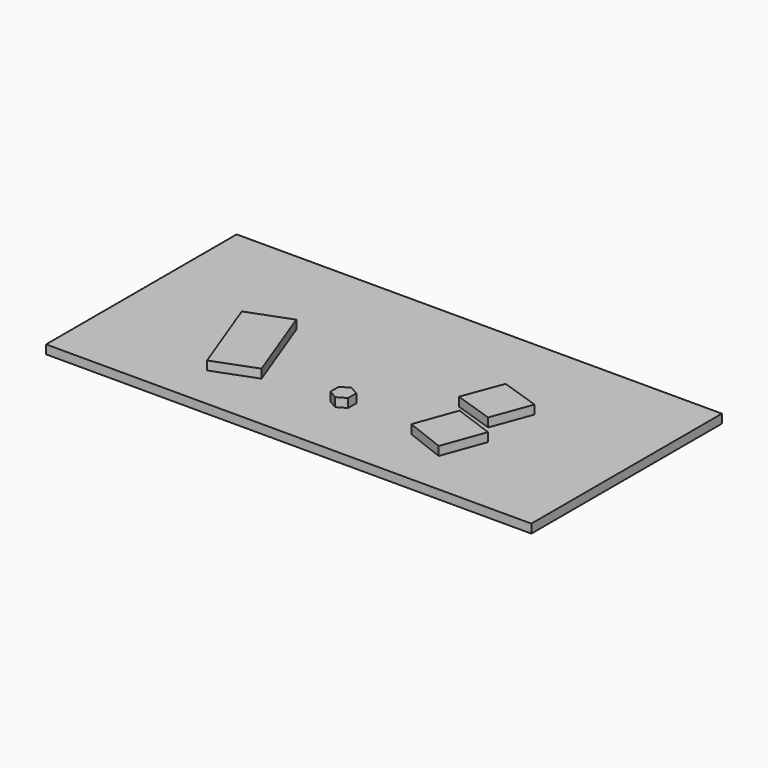
from build123d import *

# Parameters (mm, degrees)
F0_W     = 1397
F0_H     = 685.8
F1_DEPTH = 25.4
F3_DEPTH = 25.4


with BuildPart() as f1:
    # F0 (on Top) → F1 (new body)
    with BuildSketch(Plane.XY):
        Rectangle(F0_W, F0_H)
    extrude(amount=F1_DEPTH)


with BuildPart() as f3:
    # F2 (on face) → F3 (new body)
    with BuildSketch(Plane.XY.offset(25.4)):
        Polygon((-336.55, -216.061316), (-215.9, -170.859306), (-303.985403, 64.252009), (-424.635403, 19.05), align=None)
        Polygon((259.336558, -52.109037), (215.9, -171.45), (330.2, -215.9), (374.551953, -94.044011), align=None)
        Polygon((-25.4, -131.514153), (-25.4, -160.843546), (0, -175.508243), (25.4, -160.843546), (25.4, -131.514153), (0, -116.849456), align=None)
        Polygon((258.710227, 114.3), (215.9, 0), (330.2, -38.1), (372.511102, 76.2), align=None)
    extrude(amount=F3_DEPTH)


solid = Compound([f1.part, f3.part])
